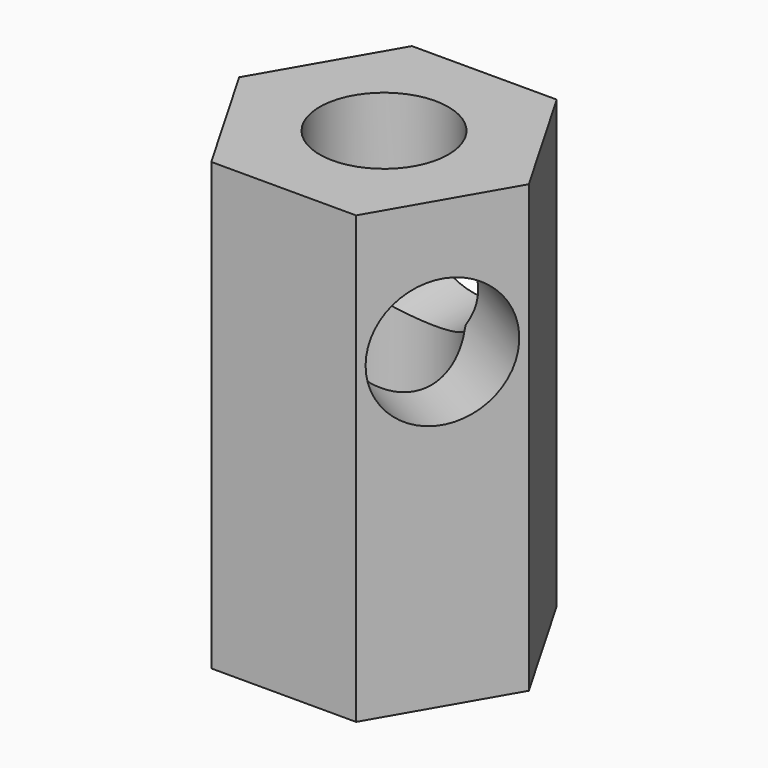
from build123d import *

# Parameters (mm, degrees)
F0_R           = 7.3406
F1_DEPTH       = 25.4
F5_D           = 14.6812
F5_DEPTH       = 16.51
F5_TIP         = 4.41067746
F5_ON_F2_D     = 14.6812
F5_ON_F2_DEPTH = 16.51
F5_ON_F2_TIP   = 4.41067746
F5_ON_F4_D     = 14.6812
F5_ON_F4_DEPTH = 16.51
F5_ON_F4_TIP   = 4.41067746


with BuildPart() as f1:
    # F0 (on Top) → F1 (new body, symmetric)
    with BuildSketch(Plane.XY):
        Polygon((8.248891971, 14.2875), (-8.248891971, 14.2875), (-16.4977839421, 0), (-8.248891971, -14.2875), (8.248891971, -14.2875), (16.4977839421, 0), align=None)
        Circle(F0_R, mode=Mode.SUBTRACT)
    extrude(amount=F1_DEPTH, both=True)

    # F5
    with Locations(Plane(origin=(0, 14.2875, 0), x_dir=(-1, 0, 0), z_dir=(0, 1, 0))):
        with Locations((0, 10.16)):
            Hole(F5_D / 2, depth=F5_DEPTH)
            with Locations((0, 0, -(F5_DEPTH + F5_TIP / 2))):  # 118° drill point
                Cone(0, F5_D / 2, F5_TIP, mode=Mode.SUBTRACT)

    # F5 on F2
    with Locations(Plane(origin=(12.3733379566, -7.14375, 0), x_dir=(0.5, 0.8660254038, 0), z_dir=(0.8660254038, -0.5, 0))):
        with Locations((0, 10.16)):
            Hole(F5_ON_F2_D / 2, depth=F5_ON_F2_DEPTH)
            with Locations((0, 0, -(F5_ON_F2_DEPTH + F5_ON_F2_TIP / 2))):  # 118° drill point
                Cone(0, F5_ON_F2_D / 2, F5_ON_F2_TIP, mode=Mode.SUBTRACT)

    # F5 on F4
    with Locations(Plane(origin=(-12.3733379566, -7.14375, 0), x_dir=(0.5, -0.8660254038, 0), z_dir=(-0.8660254038, -0.5, 0))):
        with Locations((0, 10.16)):
            Hole(F5_ON_F4_D / 2, depth=F5_ON_F4_DEPTH)
            with Locations((0, 0, -(F5_ON_F4_DEPTH + F5_ON_F4_TIP / 2))):  # 118° drill point
                Cone(0, F5_ON_F4_D / 2, F5_ON_F4_TIP, mode=Mode.SUBTRACT)


solid = f1.part
